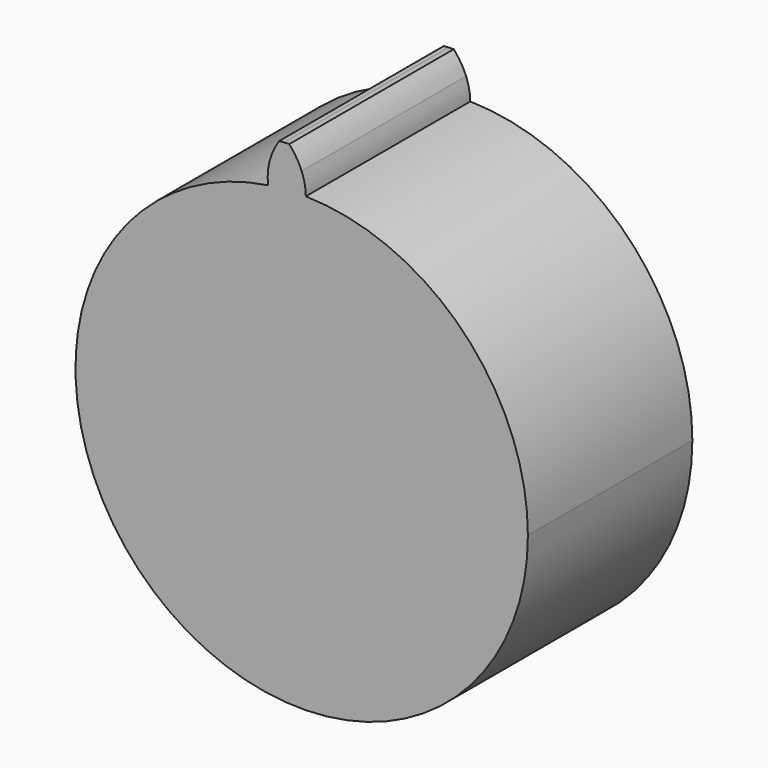
from build123d import *

# Parameters (mm, degrees)
F1_DEPTH = 20.000011


with BuildPart() as f1:
    # F0 (on Front) → F1 (new body)
    with BuildSketch(Plane.XZ):
        with BuildLine():
            ThreePointArc((-3.271326, 21.764202), (-14.359396, -16.679023), (22.008682, 0))
            ThreePointArc((22.008682, 0), (15.704163, 15.419512), (0.402541, 22.005))
            ThreePointArc((0.402541, 22.005), (-1.439437, 21.961559), (-3.271326, 21.764202))
        make_face()
        with BuildLine():
            ThreePointArc((-3.271326, 21.764202), (-1.439437, 21.961559), (0.402541, 22.005))
            ThreePointArc((0.402541, 22.005), (0.294678, 23.039922), (0, 24.037851))
            ThreePointArc((0, 24.037851), (-0.516199, 25.054794), (-1.207822, 25.961598))
            ThreePointArc((-1.207822, 25.961598), (-1.455449, 25.953355), (-1.703043, 25.944164))
            ThreePointArc((-1.703043, 25.944164), (-1.943324, 25.927273), (-2.183439, 25.908157))
            ThreePointArc((-2.183439, 25.908157), (-2.755717, 24.913941), (-3.137569, 23.832204))
            ThreePointArc((-3.137569, 23.832204), (-3.299471, 22.804349), (-3.271326, 21.764202))
        make_face()
    extrude(amount=F1_DEPTH)


solid = f1.part
